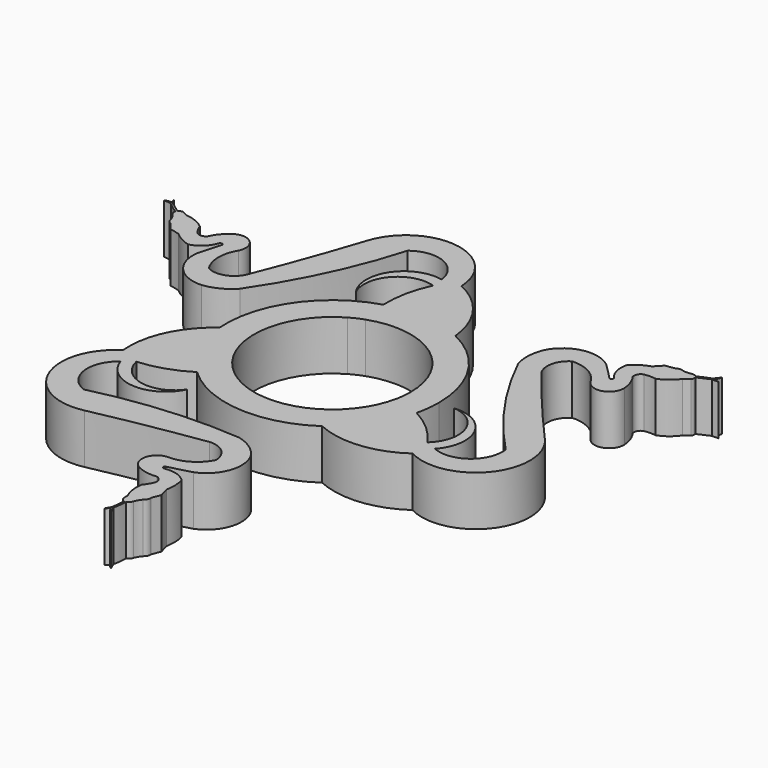
from build123d import *

# Parameters (mm, degrees)
F1_DEPTH = 7
F2_COUNT = 3


with BuildPart() as f1:
    # F0 (on Top) → F1 (new body)
    with BuildSketch(Plane.XY):
        with BuildLine():
            ThreePointArc((19.911619, -8.166607), (17.543738, -5.480184), (14.599963, -3.441086))
            ThreePointArc((14.599963, -3.441086), (12.370328, -8.483807), (8.469307, -12.38026))
            ThreePointArc((8.469307, -12.38026), (14.522507, -13.388086), (20.276548, -11.255493))
            ThreePointArc((20.276548, -11.255493), (29.817845, -9.18146), (29.413784, 0.574292))
            ThreePointArc((29.413784, 0.574292), (24.305689, 6.457834), (19.386908, 12.500541))
            ThreePointArc((19.386908, 12.500541), (18.899382, 14.842139), (20.276548, 16.79769))
            ThreePointArc((20.276548, 16.79769), (22.963658, 16.182674), (24.911437, 14.232043))
            ThreePointArc((24.911437, 14.232043), (27.294309, 13.34521), (28.733607, 15.441152))
            ThreePointArc((28.733607, 15.441152), (28.42968, 16.838907), (27.747044, 18.095927))
            ThreePointArc((27.747044, 18.095927), (27.819997, 18.82609), (28.394395, 19.282736))
            ThreePointArc((28.394395, 19.282736), (29.194592, 19.357364), (29.99479, 19.282736))
            ThreePointArc((29.99479, 19.282736), (31.313352, 20.013671), (32.350428, 21.107905))
            ThreePointArc((32.350428, 21.107905), (32.747453, 21.35798), (33.123679, 21.638373))
            ThreePointArc((33.123679, 21.638373), (33.236351, 21.937357), (33.215091, 22.256158))
            ThreePointArc((33.215091, 22.256158), (34.074746, 22.640916), (34.931641, 23.031782))
            ThreePointArc((34.931641, 23.031782), (35.395743, 23.023665), (35.859846, 23.031782))
            ThreePointArc((35.859846, 23.031782), (35.514758, 23.138271), (35.166871, 23.235226))
            ThreePointArc((35.166871, 23.235226), (35.408402, 23.631601), (35.497464, 24.087142))
            ThreePointArc((35.497464, 24.087142), (35.193756, 23.645558), (34.848992, 23.235226))
            ThreePointArc((34.848992, 23.235226), (33.969899, 22.894434), (33.123679, 22.478674))
            ThreePointArc((33.123679, 22.478674), (32.717605, 22.663576), (32.271761, 22.646023))
            ThreePointArc((32.271761, 22.646023), (31.722721, 22.59774), (31.17368, 22.646023))
            ThreePointArc((31.17368, 22.646023), (30.666364, 22.748602), (30.183258, 22.562858))
            ThreePointArc((30.183258, 22.562858), (29.515854, 22.463255), (28.849158, 22.359021))
            ThreePointArc((28.849158, 22.359021), (28.37224, 21.836259), (27.868547, 21.339245))
            ThreePointArc((27.868547, 21.339245), (26.616866, 20.751209), (25.524797, 19.902753))
            ThreePointArc((25.524797, 19.902753), (25.494877, 18.175258), (26.280845, 16.636625))
            ThreePointArc((26.280845, 16.636625), (26.333424, 16.296609), (26.008667, 16.182994))
            ThreePointArc((26.008667, 16.182994), (24.834884, 17.392019), (23.638841, 18.579029))
            ThreePointArc((23.638841, 18.579029), (19.553333, 19.540115), (16.213791, 16.997965))
            ThreePointArc((16.213791, 16.997965), (15.711707, 14.872374), (15.976911, 12.70445))
            ThreePointArc((15.976911, 12.70445), (21.162192, 3.810315), (27.695496, -4.146362))
            ThreePointArc((27.695496, -4.146362), (25.976142, -8.319526), (21.494055, -8.850903))
            ThreePointArc((21.494055, -8.850903), (22.328872, -2.938933), (17.131662, 0))
            ThreePointArc((17.131662, 0), (21.205283, -3.169777), (19.911619, -8.166607))
        make_face()
        with BuildLine():
            ThreePointArc((19.911619, -8.166607), (17.543738, -5.480184), (14.599963, -3.441086))
            ThreePointArc((14.599963, -3.441086), (12.370328, -8.483807), (8.469307, -12.38026))
            ThreePointArc((8.469307, -12.38026), (14.522507, -13.388086), (20.276548, -11.255493))
            ThreePointArc((20.276548, -11.255493), (29.817845, -9.18146), (29.413784, 0.574292))
            ThreePointArc((29.413784, 0.574292), (24.305689, 6.457834), (19.386908, 12.500541))
            ThreePointArc((19.386908, 12.500541), (18.899382, 14.842139), (20.276548, 16.79769))
            ThreePointArc((20.276548, 16.79769), (22.963658, 16.182674), (24.911437, 14.232043))
            ThreePointArc((24.911437, 14.232043), (27.294309, 13.34521), (28.733607, 15.441152))
            ThreePointArc((28.733607, 15.441152), (28.42968, 16.838907), (27.747044, 18.095927))
            ThreePointArc((27.747044, 18.095927), (27.819997, 18.82609), (28.394395, 19.282736))
            ThreePointArc((28.394395, 19.282736), (29.194592, 19.357364), (29.99479, 19.282736))
            ThreePointArc((29.99479, 19.282736), (31.313352, 20.013671), (32.350428, 21.107905))
            ThreePointArc((32.350428, 21.107905), (32.747453, 21.35798), (33.123679, 21.638373))
            ThreePointArc((33.123679, 21.638373), (33.236351, 21.937357), (33.215091, 22.256158))
            ThreePointArc((33.215091, 22.256158), (34.074746, 22.640916), (34.931641, 23.031782))
            ThreePointArc((34.931641, 23.031782), (35.395743, 23.023665), (35.859846, 23.031782))
            ThreePointArc((35.859846, 23.031782), (35.514758, 23.138271), (35.166871, 23.235226))
            ThreePointArc((35.166871, 23.235226), (35.408402, 23.631601), (35.497464, 24.087142))
            ThreePointArc((35.497464, 24.087142), (35.193756, 23.645558), (34.848992, 23.235226))
            ThreePointArc((34.848992, 23.235226), (33.969899, 22.894434), (33.123679, 22.478674))
            ThreePointArc((33.123679, 22.478674), (32.717605, 22.663576), (32.271761, 22.646023))
            ThreePointArc((32.271761, 22.646023), (31.722721, 22.59774), (31.17368, 22.646023))
            ThreePointArc((31.17368, 22.646023), (30.666364, 22.748602), (30.183258, 22.562858))
            ThreePointArc((30.183258, 22.562858), (29.515854, 22.463255), (28.849158, 22.359021))
            ThreePointArc((28.849158, 22.359021), (28.37224, 21.836259), (27.868547, 21.339245))
            ThreePointArc((27.868547, 21.339245), (26.616866, 20.751209), (25.524797, 19.902753))
            ThreePointArc((25.524797, 19.902753), (25.494877, 18.175258), (26.280845, 16.636625))
            ThreePointArc((26.280845, 16.636625), (26.333424, 16.296609), (26.008667, 16.182994))
            ThreePointArc((26.008667, 16.182994), (24.834884, 17.392019), (23.638841, 18.579029))
            ThreePointArc((23.638841, 18.579029), (19.553333, 19.540115), (16.213791, 16.997965))
            ThreePointArc((16.213791, 16.997965), (15.711707, 14.872374), (15.976911, 12.70445))
            ThreePointArc((15.976911, 12.70445), (21.162192, 3.810315), (27.695496, -4.146362))
            ThreePointArc((27.695496, -4.146362), (25.976142, -8.319526), (21.494055, -8.850903))
            ThreePointArc((21.494055, -8.850903), (22.328872, -2.938933), (17.131662, 0))
            ThreePointArc((17.131662, 0), (21.205283, -3.169777), (19.911619, -8.166607))
        make_face()
        with BuildLine():
            ThreePointArc((4.323353, -10.114772), (-9.180329, 6.059832), (11, 0))
            ThreePointArc((11, 0), (10.95098, -1.037323), (10.804357, -2.0654))
            ThreePointArc((10.804357, -2.0654), (12.749286, -2.62322), (14.599963, -3.441086))
            ThreePointArc((14.599963, -3.441086), (14.899655, -1.73213), (15, 0))
            ThreePointArc((15, 0), (-13.267245, 6.998586), (8.469307, -12.38026))
            ThreePointArc((8.469307, -12.38026), (8.380036, -12.339422), (8.291104, -12.29785))
            ThreePointArc((8.291104, -12.29785), (6.23471, -11.338114), (4.323353, -10.114772))
        make_face()
    extrude(amount=F1_DEPTH)

    # F2: F1 ×3 about axis
    f2_axis = Axis((0, 0, 0), (0, 0, -1))


with BuildPart() as f1_1:
    add(f1.part)
    for i in range(1, F2_COUNT):
        add(f1.part.rotate(f2_axis, i * 360 / F2_COUNT))


solid = f1_1.part
